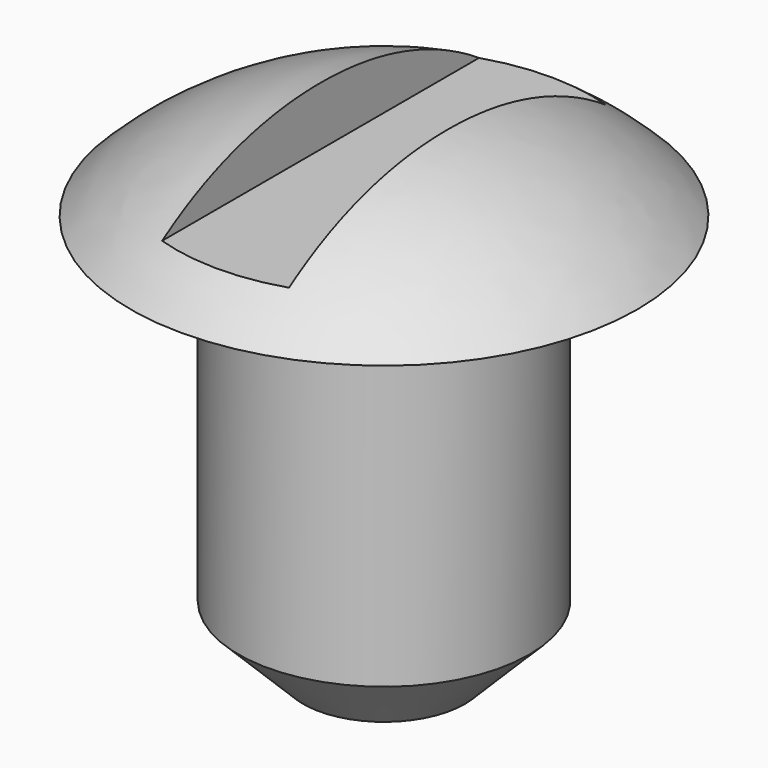
from build123d import *

# Parameters (mm, degrees)
F2_SIZE  = 2.032
F4_W     = 3.995592
F4_H     = 21.1161
F5_DEPTH = 15.0368


with BuildPart() as f1:
    # F0 (on Front) → F1 (revolve)
    with BuildSketch(Plane.XZ):
        with BuildLine():
            Line((0, 15.875), (0, 0))
            Line((0, 0), (4.579796, 0))
            Line((4.579796, 0), (4.579796, 12.7))
            Line((4.579796, 12.7), (7.976606, 12.7))
            ThreePointArc((7.976606, 12.7), (4.312034, 15.100816), (0, 15.875))
        make_face()
    revolve(axis=Axis((0, 0, 7.9375), (0, 0, 1)))

    # F2
    f2_edges = [f1.edges().sort_by_distance(p)[0] for p in [
        (-4.579796, 0, 0),
    ]]
    chamfer(f2_edges, length=F2_SIZE)

    # F4 (on offset) → F5 (cut)
    with BuildSketch(Plane.XY.offset(28.9306)):
        Rectangle(F4_W, F4_H)
    extrude(amount=-F5_DEPTH, mode=Mode.SUBTRACT)


solid = f1.part
